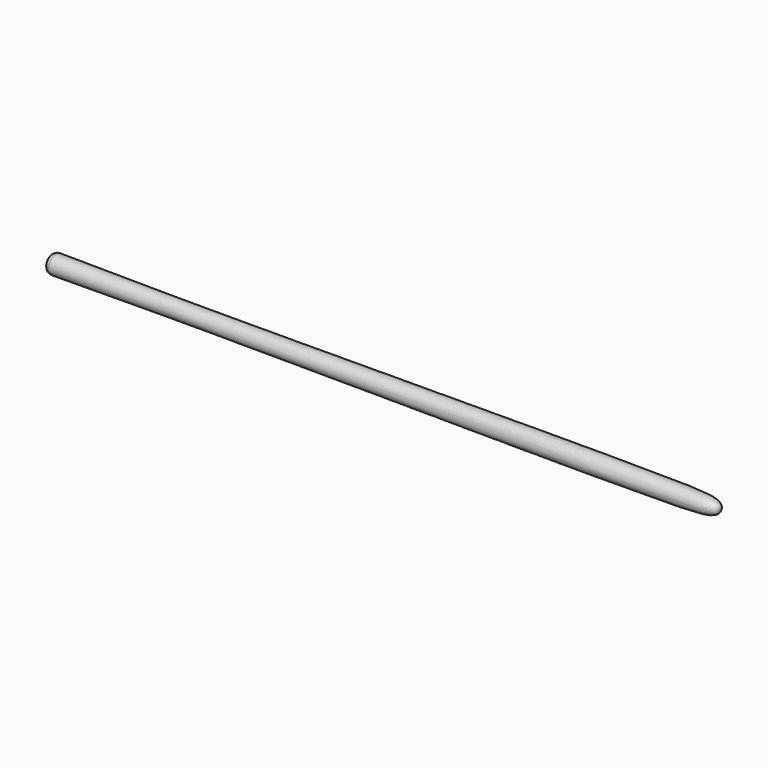
from build123d import *

# Parameters (mm, degrees)
F2_R = 9.525


with BuildPart() as f1:
    # F0 (on Top) → F1 (revolve)
    with BuildSketch(Plane.XY):
        with BuildLine():
            Line((571.5, 0), (-571.5, 0))
            Line((-571.5, 0), (-571.5, -15.875))
            add(Edge.make_bspline(
                [(-571.5, -15.875), (-308.8722527027, -11.8488026783), (457.1784405824, -20.2756521116), (573.1748653188, -13.7670938821), (571.5, 0)],
                knots=[0, 0, 0, 0, 0.7850583256, 1, 1, 1, 1], degree=3))
        make_face()
    revolve(axis=Axis((0, 0, 0), (1, 0, 0)))

    # F2
    f2_edges = [f1.edges().sort_by_distance(p)[0] for p in [
        (-571.5, 15.875, 0),
    ]]
    fillet(f2_edges, radius=F2_R)


solid = f1.part
